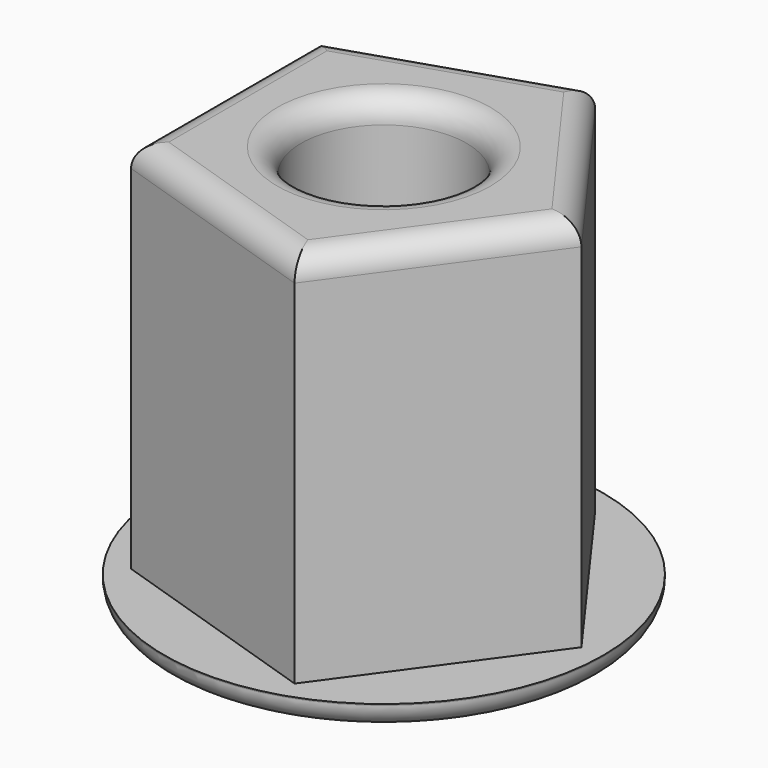
from build123d import *

# Parameters (mm, degrees)
SKETCH_R          = 6.6
PAD_DEPTH         = 30
COPYSKETCH001_R   = 17.5
COPYSKETCH001_R_2 = 6.6
PAD001_DEPTH      = 2
FILLET_R          = 1.9


with BuildPart() as part:
    # Sketch → Pad (new body)
    with BuildSketch(Plane.XY):
        Polygon((15.75, 0), (4.867018, 14.97914), (-12.742018, 9.257618), (-12.742018, -9.257618), (4.867018, -14.97914), align=None)
        Circle(SKETCH_R, mode=Mode.SUBTRACT)
    extrude(amount=PAD_DEPTH)

    # CopySketch001 → Pad001 (join)
    with BuildSketch(Plane(origin=(0, 0, 0), x_dir=(1, 0, 0), z_dir=(0, 0, -1))):
        Circle(COPYSKETCH001_R)
        Circle(COPYSKETCH001_R_2, mode=Mode.SUBTRACT)
    extrude(amount=PAD001_DEPTH)

    # Fillet
    fillet_edges = [part.edges().sort_by_distance(p)[0] for p in [
        (10.308509, 7.48957, 30),
        (-3.9375, 12.118379, 30),
        (-12.742018, 0, 30),
        (-3.9375, -12.118379, 30),
        (10.308509, -7.48957, 30),
        (-6.6, 0, 30),
        (-17.5, 0, -2),
    ]]
    fillet(fillet_edges, radius=FILLET_R)


solid = part.part
